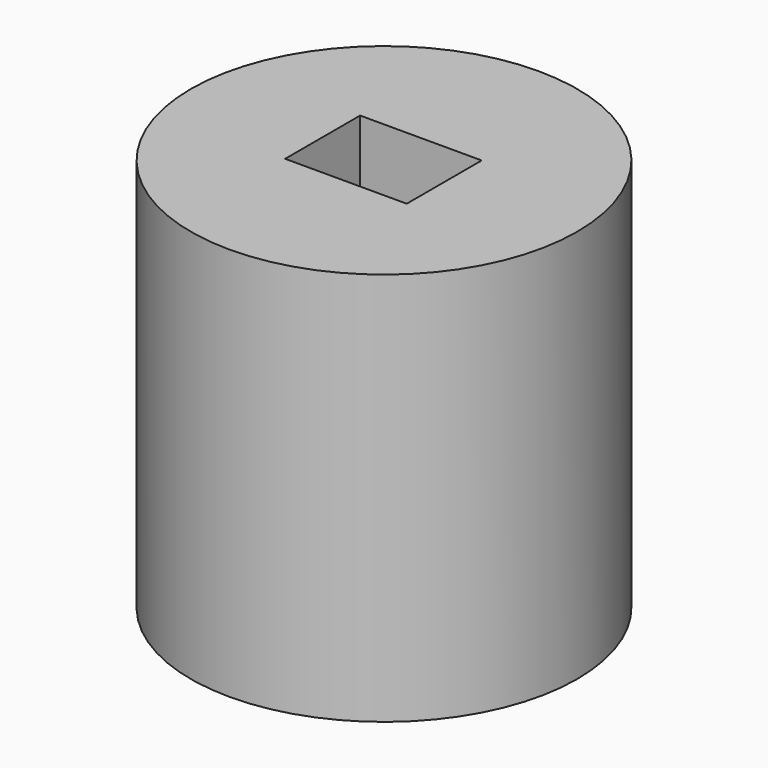
from build123d import *

# Parameters (mm, degrees)
F0_R     = 49.06848
F1_DEPTH = 100
F2_W     = 30.8768
F2_H     = 23.794965
F3_DEPTH = 100


with BuildPart() as f1:
    # F0 (on Top) → F1 (new body)
    with BuildSketch(Plane.XY):
        Circle(F0_R)
    extrude(amount=F1_DEPTH)

    # F2 (on face) → F3 (cut)
    with BuildSketch(Plane(origin=(0, 0, 0), x_dir=(1, 0, 0), z_dir=(0, 0, -1))):
        with Locations((-0.283273, -0.16606)):
            Rectangle(F2_W, F2_H)
    extrude(amount=-F3_DEPTH, mode=Mode.SUBTRACT)


solid = f1.part
